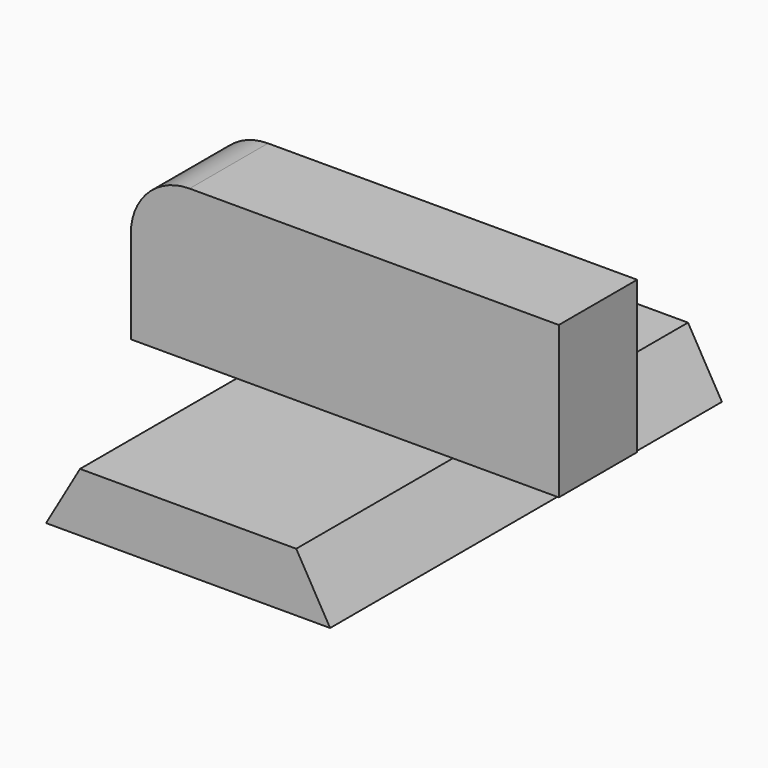
from build123d import *

# Parameters (mm, degrees)
F1_DEPTH = 12.7
F2_W     = 2.54
F2_H     = 3.937
F3_DEPTH = 25.4
F4_R     = 1.524


with BuildPart() as f1:
    # F0 (on Front) → F1 (new body)
    with BuildSketch(Plane.XZ):
        Polygon((-2.863529, 1.524), (-3.743411, 0), (3.622589, 0), (2.742708, 1.524), (5.488804, 1.524), (5.488804, 5.461), (-5.609625, 5.461), (-5.609625, 1.524), align=None)
    extrude(amount=F1_DEPTH)

    # F2 (on face) → F3 (intersect)
    with BuildSketch(Plane.YZ.offset(5.488804)):
        with Locations((-6.35, 3.4925)):
            Rectangle(F2_W, F2_H)
        Polygon((-7.62, 1.524), (-12.7, 1.524), (-12.7, 0), (0, 0), (0, 1.524), (-5.08, 1.524), align=None)
    extrude(amount=-F3_DEPTH, mode=Mode.INTERSECT)

    # F4
    f4_edges = [f1.edges().sort_by_distance(p)[0] for p in [
        (-5.609625, -6.35, 5.461),
    ]]
    fillet(f4_edges, radius=F4_R)


solid = f1.part
